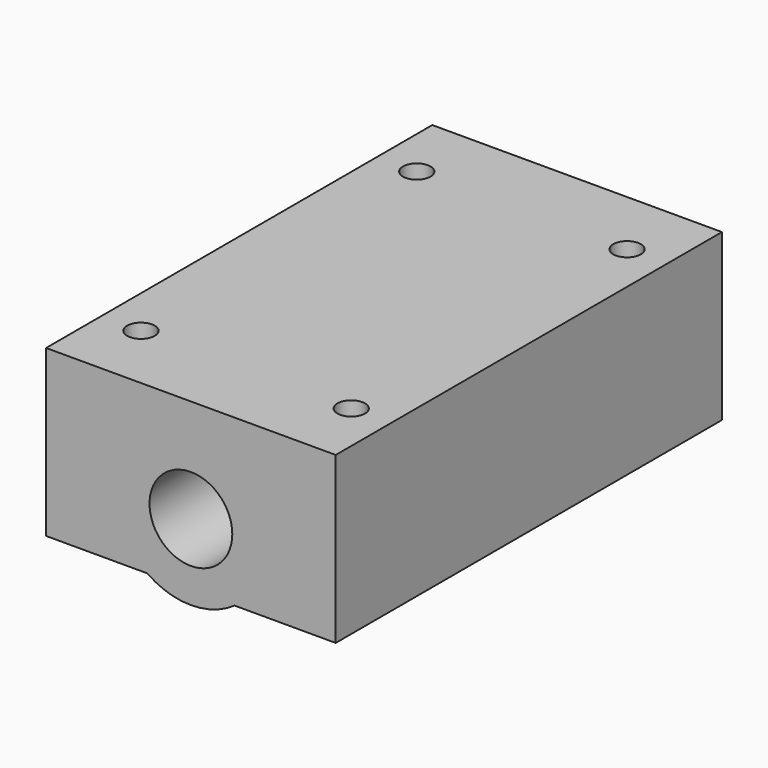
from build123d import *

# Parameters (mm, degrees)
F0_R     = 6
F1_DEPTH = 70
F2_R     = 2
F3_DEPTH = 26.001


with BuildPart() as f1:
    # F0 (on Front) → F1 (new body)
    with BuildSketch(Plane.XZ):
        with BuildLine():
            Line((21, 15), (-21, 15))
            Line((-21, 15), (-21, -9))
            Line((-21, -9), (-6.324555, -9))
            ThreePointArc((-6.324555, -9), (0, -11), (6.324555, -9))
            Line((6.324555, -9), (21, -9))
            Line((21, -9), (21, 15))
        make_face()
        Circle(F0_R, mode=Mode.SUBTRACT)
    extrude(amount=-F1_DEPTH)

    # F2 (on face) → F3 (cut, through all)
    with BuildSketch(Plane.XY.offset(15)):
        with Locations((-15.25, 10)):
            Circle(F2_R)
        with Locations((-15.25, 60)):
            Circle(F2_R)
        with Locations((15.25, 60)):
            Circle(F2_R)
        with Locations((15.25, 10)):
            Circle(F2_R)
    extrude(amount=-F3_DEPTH, mode=Mode.SUBTRACT)


solid = f1.part
